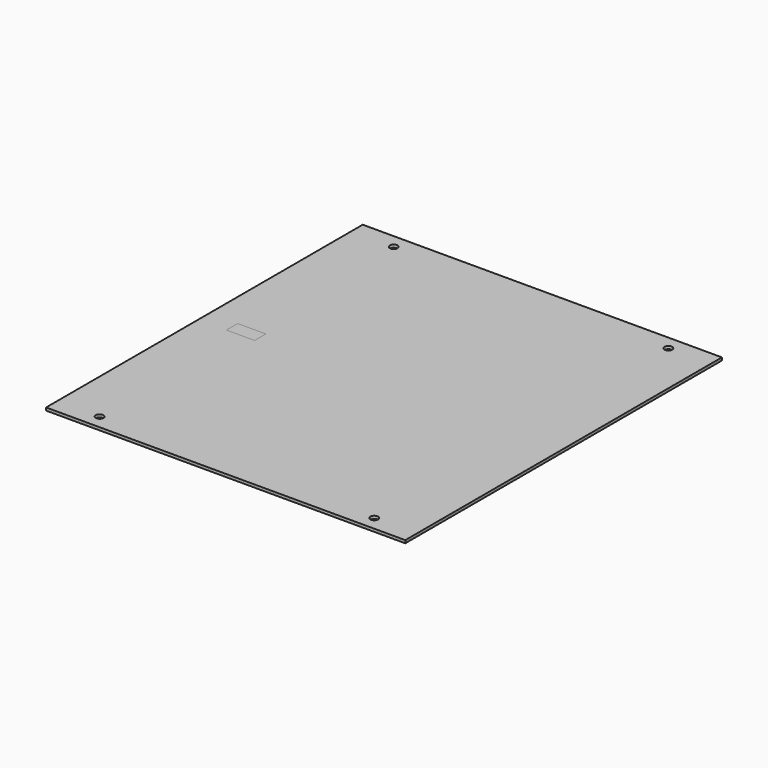
from build123d import *

# Parameters (mm, degrees)
CYLINDER003_R     = 2.75
CYLINDER003_DEPTH = 10
CYLINDER002_R     = 2.75
CYLINDER002_DEPTH = 10
CYLINDER001_R     = 2.75
CYLINDER001_DEPTH = 10
CYLINDER_R        = 2.75
CYLINDER_DEPTH    = 10
BOX_W             = 255
BOX_H             = 281
BOX_DEPTH         = 2
BOX001_W          = 20
BOX001_H          = 10
BOX001_DEPTH      = 10


with BuildPart() as cylinder003:
    # Cylinder003 → Cylinder003 (new body)
    with BuildSketch(Plane(origin=(225, 271, -5), x_dir=(1, 0, 0), z_dir=(0, 0, 1))):
        Circle(CYLINDER003_R)
    extrude(amount=CYLINDER003_DEPTH)


with BuildPart() as cylinder002:
    # Cylinder002 → Cylinder002 (new body)
    with BuildSketch(Plane(origin=(225, 10, -5), x_dir=(1, 0, 0), z_dir=(0, 0, 1))):
        Circle(CYLINDER002_R)
    extrude(amount=CYLINDER002_DEPTH)


with BuildPart() as cylinder001:
    # Cylinder001 → Cylinder001 (new body)
    with BuildSketch(Plane(origin=(30, 271, -5), x_dir=(1, 0, 0), z_dir=(0, 0, 1))):
        Circle(CYLINDER001_R)
    extrude(amount=CYLINDER001_DEPTH)


with BuildPart() as cylinder:
    # Cylinder → Cylinder (new body)
    with BuildSketch(Plane(origin=(30, 10, -5), x_dir=(1, 0, 0), z_dir=(0, 0, 1))):
        Circle(CYLINDER_R)
    extrude(amount=CYLINDER_DEPTH)


with BuildPart() as cut002:
    # Box → Box (new body)
    with BuildSketch(Plane.XY.offset(0)):
        with Locations((127.5, 140.5)):
            Rectangle(BOX_W, BOX_H)
    extrude(amount=BOX_DEPTH)

    # Cut: cut Cylinder
    add(cylinder.part, mode=Mode.SUBTRACT)

    # Cut001: cut Cylinder001
    add(cylinder001.part, mode=Mode.SUBTRACT)

    # Cut002: cut Cylinder002
    add(cylinder002.part, mode=Mode.SUBTRACT)


with BuildPart() as cut004:
    # Cut004 base: copy of Cut002
    add(cut002.part)

    # Cut004: cut Cylinder003
    add(cylinder003.part, mode=Mode.SUBTRACT)


with BuildPart() as cube001:
    # Box001 → Box001 (new body)
    with BuildSketch(Plane(origin=(20, 135, -5), x_dir=(1, 0, 0), z_dir=(0, 0, 1))):
        with Locations((10, 5)):
            Rectangle(BOX001_W, BOX001_H)
    extrude(amount=BOX001_DEPTH)


with BuildPart() as cut005:
    # Cut003 base: copy of Cut002
    add(cut002.part)

    # Cut003: cut Cylinder003
    add(cylinder003.part, mode=Mode.SUBTRACT)

    # Cut005: cut Cube001
    add(cube001.part, mode=Mode.SUBTRACT)


solid = Compound([cut004.part, cut005.part])
